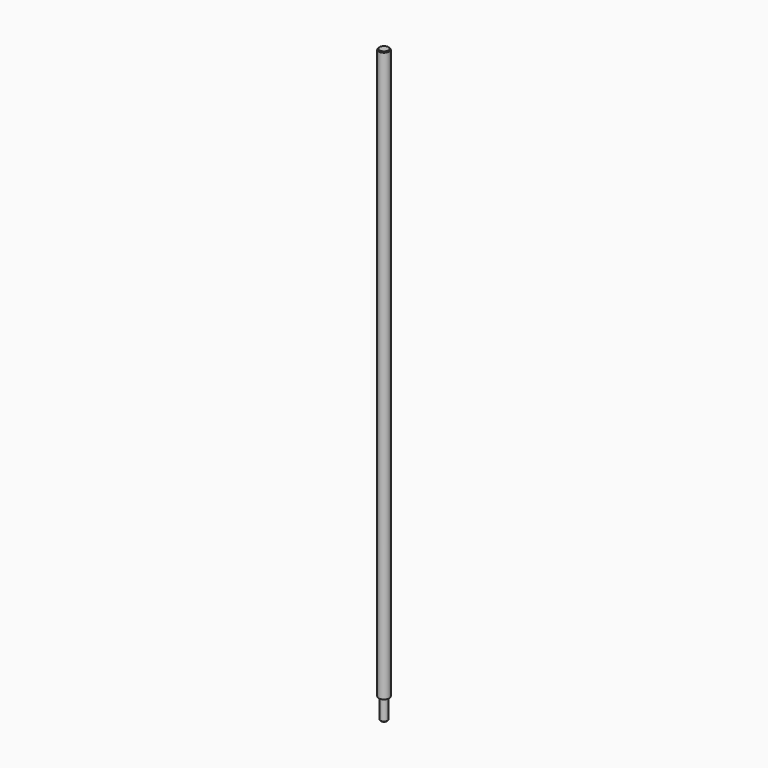
from build123d import *

# Parameters (mm, degrees)
F2_SIZE = 1.524


with BuildPart() as f1:
    # F0 (on Right) → F1 (revolve)
    with BuildSketch(Plane.YZ):
        Polygon((0, 1066.8), (0, 0), (6.35, 0), (6.35, 38.1), (9.525, 38.1), (9.525, 1066.8), align=None)
    revolve(axis=Axis((0, 0, 533.4), (0, 0, 1)))

    # F2
    f2_edges = [f1.edges().sort_by_distance(p)[0] for p in [
        (0, -6.35, 0),
        (0, -9.525, 1066.8),
    ]]
    chamfer(f2_edges, length=F2_SIZE)


solid = f1.part
